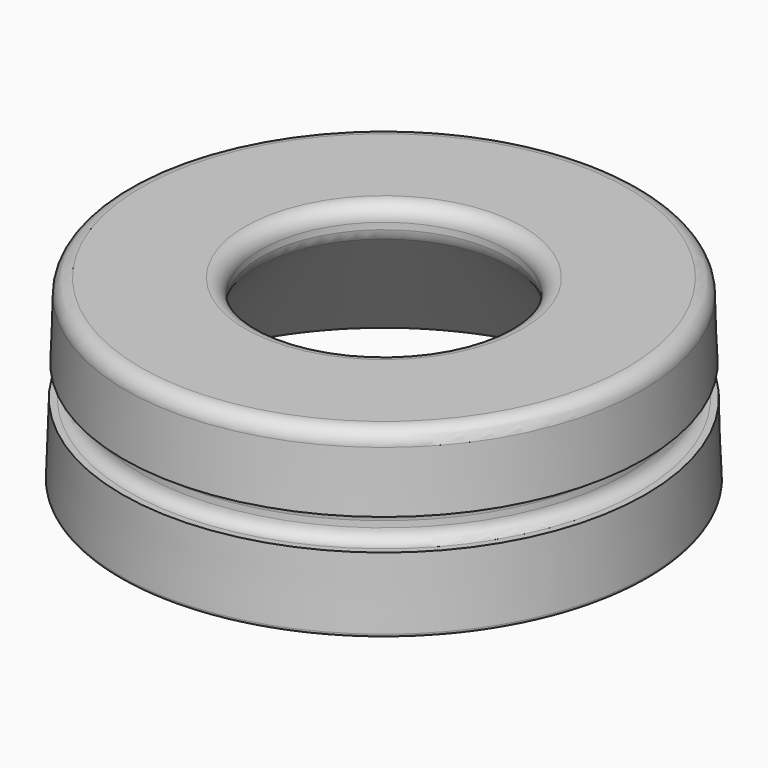
from build123d import *

# Parameters (mm, degrees)
F2_R = 1
F3_R = 0.8
F4_R = 0.2


with BuildPart() as f1:
    # F0 (on Front) → F1 (revolve)
    with BuildSketch(Plane.XZ):
        Polygon((8, 10.194565), (17.15, 0), (16.978986, 5.130417), (15.778986, 5.130417), (15.712356, 7.129307), (16.912356, 7.129307), (16.75, 12), (8, 12), align=None)
    revolve(axis=Axis((0, 0, 4.741906), (0, 0, 1)))

    # F2
    f2_edges = [f1.edges().sort_by_distance(p)[0] for p in [
        (-16.75, 0, 12),
        (-8, 0, 12),
        (-8, 0, 10.194565),
        (8, 0, 11.097283),
    ]]
    fillet(f2_edges, radius=F2_R)

    # F3
    f3_edges = [f1.edges().sort_by_distance(p)[0] for p in [
        (-15.712356, 0, 7.129307),
        (-15.778986, 0, 5.130417),
    ]]
    fillet(f3_edges, radius=F3_R)

    # F4
    f4_edges = [f1.edges().sort_by_distance(p)[0] for p in [
        (-17.15, 0, 0),
    ]]
    fillet(f4_edges, radius=F4_R)


solid = f1.part
